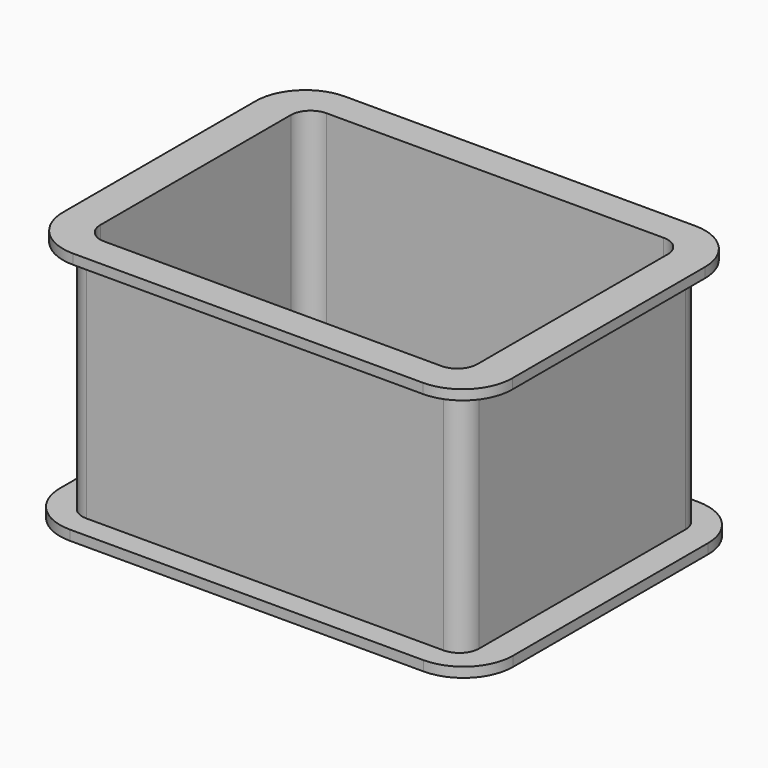
from build123d import *

# Parameters (mm, degrees)
F0_W     = 40
F0_H     = 30
F0_W_2   = 38
F0_H_2   = 28
F1_DEPTH = 25
F2_R     = 2
F3_W     = 45.2934801579
F3_H     = 34.2747867107
F3_W_2   = 38.8284271247
F3_H_2   = 28.8284271247
F4_DEPTH = 1
F5_R     = 5
F6_W     = 45.6778518856
F6_H     = 34.5805324614
F6_W_2   = 38
F6_H_2   = 28.8284271247
F7_DEPTH = 0.5
F8_R     = 5


with BuildPart() as f1:
    # F0 (on Top) → F1 (new body)
    with BuildSketch(Plane.XY):
        Rectangle(F0_W, F0_H)
        Rectangle(F0_W_2, F0_H_2, mode=Mode.SUBTRACT)
    extrude(amount=F1_DEPTH)

    # F2
    f2_edges = [f1.edges().sort_by_distance(p)[0] for p in [
        (-19, -14, 12.5),
        (-20, -15, 12.5),
        (-20, 15, 12.5),
        (-19, 14, 12.5),
        (19, -14, 12.5),
        (19, 14, 12.5),
        (20, 15, 12.5),
        (20, -15, 12.5),
    ]]
    fillet(f2_edges, radius=F2_R)

    # F3 (on face) → F4 (join)
    with BuildSketch(Plane.XY.offset(25)):
        Rectangle(F3_W, F3_H)
        Rectangle(F3_W_2, F3_H_2, mode=Mode.SUBTRACT)
    extrude(amount=-F4_DEPTH)

    # F5
    f5_edges = [f1.edges().sort_by_distance(p)[0] for p in [
        (-22.64674, 17.137393, 24.5),
        (-22.64674, -17.137393, 24.5),
        (22.64674, 17.137393, 24.5),
        (22.64674, -17.137393, 24.5),
    ]]
    fillet(f5_edges, radius=F5_R)

    # F6 (on face) → F7 (join, symmetric)
    with BuildSketch(Plane(origin=(0, 0, 0), x_dir=(1, 0, 0), z_dir=(0, 0, -1))):
        Rectangle(F6_W, F6_H)
        Rectangle(F6_W_2, F6_H_2, mode=Mode.SUBTRACT)
    extrude(amount=F7_DEPTH, both=True)

    # F8
    f8_edges = [f1.edges().sort_by_distance(p)[0] for p in [
        (-22.838926, -17.290266, 0),
        (22.838926, -17.290266, 0),
        (-22.838926, 17.290266, 0),
        (22.838926, 17.290266, 0),
    ]]
    fillet(f8_edges, radius=F8_R)


solid = f1.part
